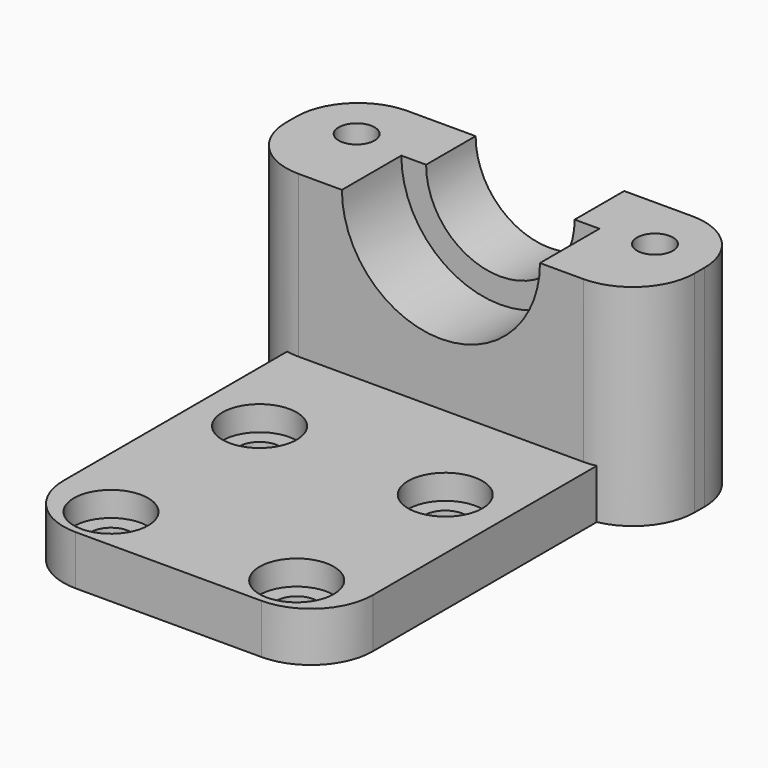
from build123d import *

# Parameters (mm, degrees)
F0_W      = 25
F0_H      = 38.5
F1_DEPTH  = 4
F2_R      = 1.675
F3_DEPTH  = 25
F4_W      = 25
F4_H      = 11
F5_DEPTH  = 13
F7_DEPTH  = 6
F8_R      = 8
F9_DEPTH  = 6
F2_R_2    = 3
F10_DEPTH = 2
F11_W     = 11
F11_H     = 17
F12_DEPTH = 4
F13_R     = 5
F14_W     = 11
F14_H     = 17
F15_DEPTH = 4
F16_DEPTH = 2
F17_R     = 1.45
F18_DEPTH = 25
F19_R     = 5
F20_DEPTH = 25


with BuildPart() as f1:
    # F0 (on Top) → F1 (new body)
    with BuildSketch(Plane.XY):
        with Locations((12.5, 19.25)):
            Rectangle(F0_W, F0_H)
    extrude(amount=F1_DEPTH)

    # F2 (on face) → F3 (cut)
    with BuildSketch(Plane.XY.offset(4)):
        with BuildLine():
            ThreePointArc((3.325, 18.5605346784), (5, 16.8855346784), (6.675, 18.5605346784))
            ThreePointArc((6.675, 18.5605346784), (5, 20.2355346784), (3.325, 18.5605346784))
        make_face()
        with Locations((20, 18.5605346784)):
            Circle(F2_R)
        with Locations((20, 3.5605346784)):
            Circle(F2_R)
        with Locations((5, 3.5605346784)):
            Circle(F2_R)
    extrude(amount=-F3_DEPTH, mode=Mode.SUBTRACT)

    # F4 (on face) → F5 (join)
    with BuildSketch(Plane.XY.offset(4)):
        with Locations((12.5, 33)):
            Rectangle(F4_W, F4_H)
    extrude(amount=F5_DEPTH)

    # F6 (on face) → F7 (cut)
    with BuildSketch(Plane(origin=(0, 38.5, 0), x_dir=(-1, 0, 0), z_dir=(0, 1, 0))):
        with BuildLine():
            ThreePointArc((-18.5, 17), (-12.5, 11), (-6.5, 17))
            Line((-6.5, 17), (-18.5, 17))
        make_face()
    extrude(amount=-F7_DEPTH, mode=Mode.SUBTRACT)

    # F8 (on face) → F9 (cut)
    with BuildSketch(Plane.XZ.offset(-27.5)):
        with Locations((12.5, 17)):
            Circle(F8_R)
    extrude(amount=-F9_DEPTH, mode=Mode.SUBTRACT)

    # F2 (on face) → F10 (cut)
    with BuildSketch(Plane.XY.offset(4)):
        with BuildLine():
            ThreePointArc((8, 18.5605346784), (5, 21.5605346784), (2, 18.5605346784))
            ThreePointArc((2, 18.5605346784), (5, 15.5605346784), (8, 18.5605346784))
        make_face()
        with BuildLine():
            ThreePointArc((3.325, 18.5605346784), (5, 20.2355346784), (6.675, 18.5605346784))
            ThreePointArc((6.675, 18.5605346784), (5, 16.8855346784), (3.325, 18.5605346784))
        make_face(mode=Mode.SUBTRACT)
        with Locations((20, 18.5605346784)):
            Circle(F2_R_2)
        with Locations((20, 18.5605346784)):
            Circle(F2_R, mode=Mode.SUBTRACT)
        with Locations((20, 3.5605346784)):
            Circle(F2_R_2)
        with Locations((20, 3.5605346784)):
            Circle(F2_R, mode=Mode.SUBTRACT)
        with Locations((5, 3.5605346784)):
            Circle(F2_R_2)
        with Locations((5, 3.5605346784)):
            Circle(F2_R, mode=Mode.SUBTRACT)
    extrude(amount=-F10_DEPTH, mode=Mode.SUBTRACT)

    # F11 (on face) → F12 (join)
    with BuildSketch(Plane(origin=(0, 0, 0), x_dir=(0, -1, 0), z_dir=(-1, 0, 0))):
        with Locations((-33, 8.5)):
            Rectangle(F11_W, F11_H)
    extrude(amount=F12_DEPTH)

    # F13
    f13_edges = [f1.edges().sort_by_distance(p)[0] for p in [
        (0, 0, 2),
        (25, 0, 2),
    ]]
    fillet(f13_edges, radius=F13_R)

    # F14 (on face) → F15 (join)
    with BuildSketch(Plane.YZ.offset(25)):
        with Locations((33, 8.5)):
            Rectangle(F14_W, F14_H)
    extrude(amount=F15_DEPTH)

    # F14 (on face) → F16 (join)
    with BuildSketch(Plane.YZ.offset(25)):
        with Locations((33, 8.5)):
            Rectangle(F14_W, F14_H)
    extrude(amount=F16_DEPTH)

    # F17 (on face) → F18 (cut)
    with BuildSketch(Plane.XY.offset(17)):
        with Locations((0.45, 34.05)):
            Circle(F17_R)
        with Locations((24.55, 34.05)):
            Circle(F17_R)
    extrude(amount=-F18_DEPTH, mode=Mode.SUBTRACT)

    # F19
    f19_edges = [f1.edges().sort_by_distance(p)[0] for p in [
        (-4, 38.5, 8.5),
        (-4, 27.5, 8.5),
        (29, 27.5, 8.5),
        (29, 38.5, 8.5),
    ]]
    fillet(f19_edges, radius=F19_R)

    # F2 (on face) → F20 (cut)
    with BuildSketch(Plane.XY.offset(4)):
        with BuildLine():
            ThreePointArc((8, 18.5605346784), (5, 21.5605346784), (2, 18.5605346784))
            ThreePointArc((2, 18.5605346784), (5, 15.5605346784), (8, 18.5605346784))
        make_face()
        with BuildLine():
            ThreePointArc((3.325, 18.5605346784), (5, 20.2355346784), (6.675, 18.5605346784))
            ThreePointArc((6.675, 18.5605346784), (5, 16.8855346784), (3.325, 18.5605346784))
        make_face(mode=Mode.SUBTRACT)
        with Locations((20, 18.5605346784)):
            Circle(F2_R_2)
        with Locations((20, 18.5605346784)):
            Circle(F2_R, mode=Mode.SUBTRACT)
        with BuildLine():
            ThreePointArc((3.325, 18.5605346784), (5, 16.8855346784), (6.675, 18.5605346784))
            ThreePointArc((6.675, 18.5605346784), (5, 20.2355346784), (3.325, 18.5605346784))
        make_face()
        with Locations((20, 18.5605346784)):
            Circle(F2_R)
    extrude(amount=F20_DEPTH, mode=Mode.SUBTRACT)


solid = f1.part
